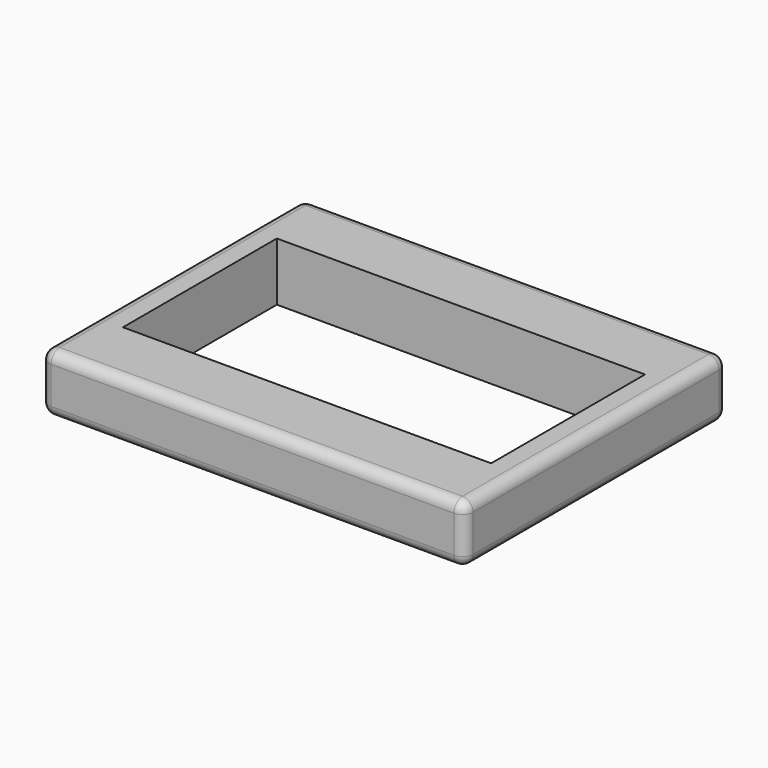
from build123d import *

# Parameters (mm, degrees)
F0_W     = 40
F0_H     = 31
F1_DEPTH = 5.5
F2_R     = 1
F3_W     = 34.735498
F3_H     = 18.146572
F4_DEPTH = 25


with BuildPart() as f1:
    # F0 (on Top) → F1 (new body)
    with BuildSketch(Plane.XY):
        Rectangle(F0_W, F0_H)
    extrude(amount=F1_DEPTH)

    # F2
    f2_edges = [f1.edges().sort_by_distance(p)[0] for p in [
        (20, 0, 5.5),
        (0, 15.5, 5.5),
        (-20, 0, 5.5),
        (0, -15.5, 5.5),
        (20, 0, 0),
        (0, 15.5, 0),
        (-20, 0, 0),
        (0, -15.5, 0),
        (-20, -15.5, 2.75),
        (20, -15.5, 2.75),
        (-20, 15.5, 2.75),
        (20, 15.5, 2.75),
    ]]
    fillet(f2_edges, radius=F2_R)

    # F3 (on face) → F4 (cut)
    with BuildSketch(Plane(origin=(0, 0, 0), x_dir=(1, 0, 0), z_dir=(0, 0, -1))):
        Rectangle(F3_W, F3_H)
    extrude(amount=-F4_DEPTH, mode=Mode.SUBTRACT)


solid = f1.part
